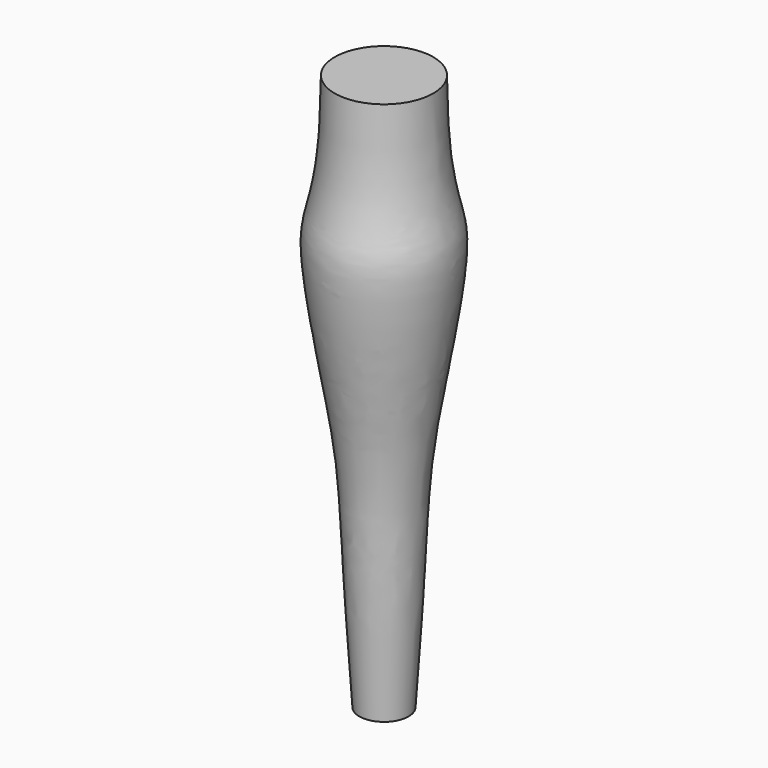
from build123d import *


with BuildPart() as f1:
    # F0 (on Front) → F1 (revolve)
    with BuildSketch(Plane.XZ):
        with BuildLine():
            Line((-190.456137345, -8.308066321), (-209.506137345, -8.308066321))
            Line((-209.506137345, -8.308066321), (-209.506137345, -223.4609615522))
            Line((-209.506137345, -223.4609615522), (-199.981137345, -223.4609615522))
            add(Edge.make_bspline(
                [(-190.456137345, -8.308066321), (-190.0275036592, -51.8668047619), (-178.4376617961, -50.9468111491), (-198.0589598046, -146.2567051674), (-195.3964874342, -156.480086536), (-199.981137345, -223.4609615522)],
                knots=[0, 0, 0, 0, 0.2983808127, 0.6136034688, 1, 1, 1, 1], degree=3))
        make_face()
    revolve(axis=Axis((-209.506137345, 0, -115.8845139366), (0, 0, -1)))


solid = f1.part
